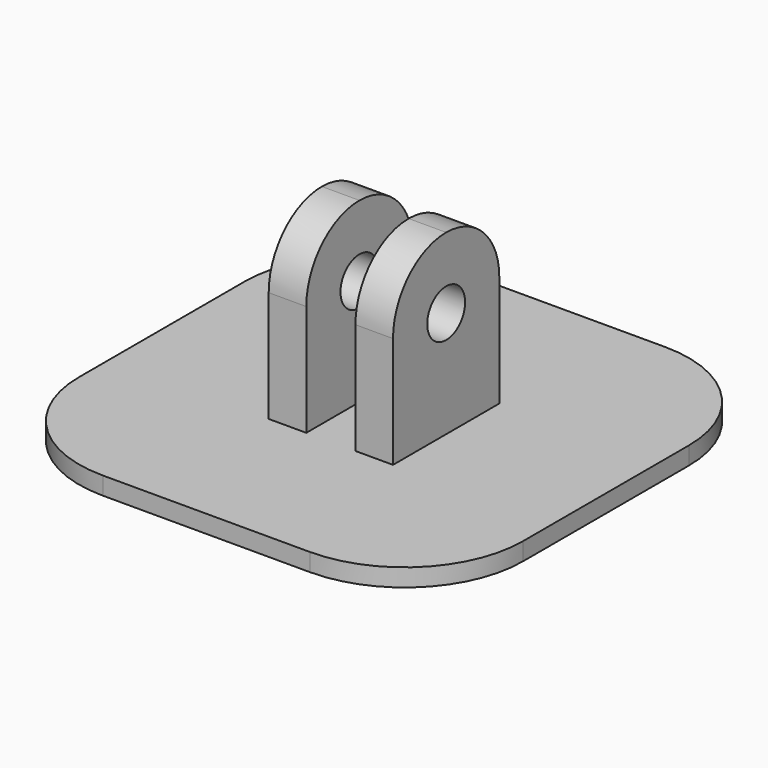
from build123d import *

# Parameters (mm, degrees)
F0_R     = 1.016
F1_DEPTH = 2.667
F2_W     = 19.05
F2_H     = 19.05
F3_DEPTH = 0.762
F4_W     = 2.1082
F4_H     = 12.7
F5_DEPTH = 12.7
F6_R     = 5.08


with BuildPart() as f1:
    # F0 (on Right) → F1 (new body, symmetric)
    with BuildSketch(Plane.YZ):
        with BuildLine():
            Line((-2.85, 4.77), (-2.85, 0))
            Line((-2.85, 0), (2.85, 0))
            Line((2.85, 0), (2.85, 4.77))
            ThreePointArc((2.85, 4.77), (2.015254, 6.785254), (0, 7.62))
            ThreePointArc((0, 7.62), (-2.015254, 6.785254), (-2.85, 4.77))
        make_face()
        with Locations((0, 4.572)):
            Circle(F0_R, mode=Mode.SUBTRACT)
    extrude(amount=F1_DEPTH, both=True)

    # F2 (on face) → F3 (join)
    with BuildSketch(Plane(origin=(0, 0, 0), x_dir=(1, 0, 0), z_dir=(0, 0, -1))):
        Rectangle(F2_W, F2_H)
    extrude(amount=F3_DEPTH)

    # F4 (on Front) → F5 (cut, symmetric)
    with BuildSketch(Plane.XZ):
        with Locations((0, 6.35)):
            Rectangle(F4_W, F4_H)
    extrude(amount=F5_DEPTH, both=True, mode=Mode.SUBTRACT)

    # F6
    f6_edges = [f1.edges().sort_by_distance(p)[0] for p in [
        (9.525, 9.525, -0.381),
        (-9.525, 9.525, -0.381),
        (9.525, -9.525, -0.381),
        (-9.525, -9.525, -0.381),
    ]]
    fillet(f6_edges, radius=F6_R)


solid = f1.part
